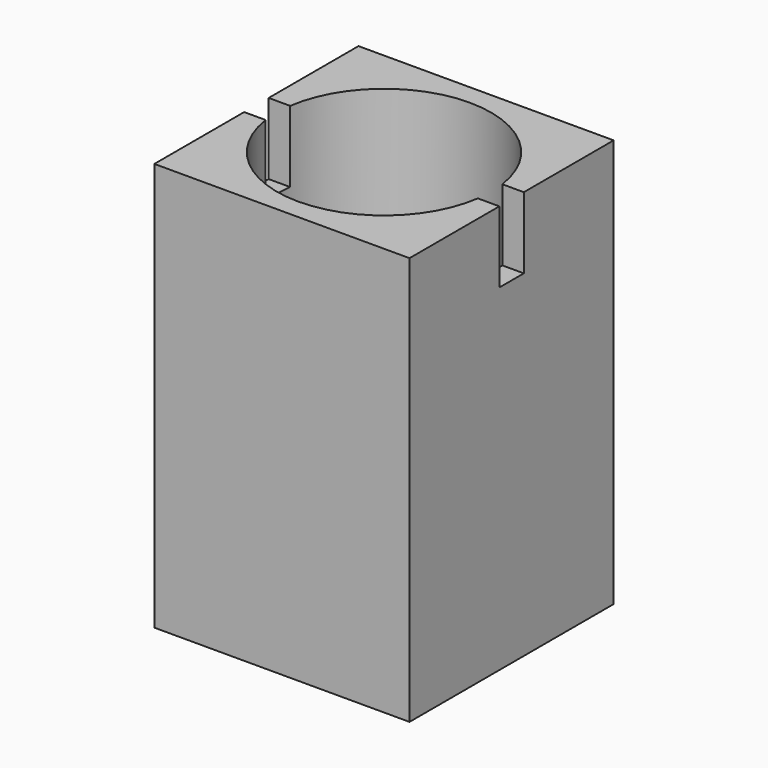
from build123d import *

# Parameters (mm, degrees)
F0_W     = 25
F0_H     = 25
F1_DEPTH = 40
F2_R     = 10.5
F3_DEPTH = 30
F4_R     = 2.25
F5_DEPTH = 25
F6_W     = 3
F6_H     = 7
F7_DEPTH = 25
F8_R     = 9.526155
F9_DEPTH = 9


with BuildPart() as f1:
    # F0 (on Top) → F1 (new body)
    with BuildSketch(Plane.XY):
        Rectangle(F0_W, F0_H)
    extrude(amount=F1_DEPTH)

    # F2 (on face) → F3 (cut)
    with BuildSketch(Plane.XY.offset(40)):
        Circle(F2_R)
    extrude(amount=-F3_DEPTH, mode=Mode.SUBTRACT)

    # F4 (on face) → F5 (cut)
    with BuildSketch(Plane.XY.offset(10)):
        Circle(F4_R)
    extrude(amount=-F5_DEPTH, mode=Mode.SUBTRACT)

    # F6 (on face) → F7 (cut)
    with BuildSketch(Plane.YZ.offset(12.5)):
        with Locations((0, 36.5)):
            Rectangle(F6_W, F6_H)
    extrude(amount=-F7_DEPTH, mode=Mode.SUBTRACT)

    # F8 (on face) → F9 (cut)
    with BuildSketch(Plane.XY.offset(10)):
        with Locations((0, -0.073845)):
            Circle(F8_R)
    extrude(amount=-F9_DEPTH, mode=Mode.SUBTRACT)


solid = f1.part
